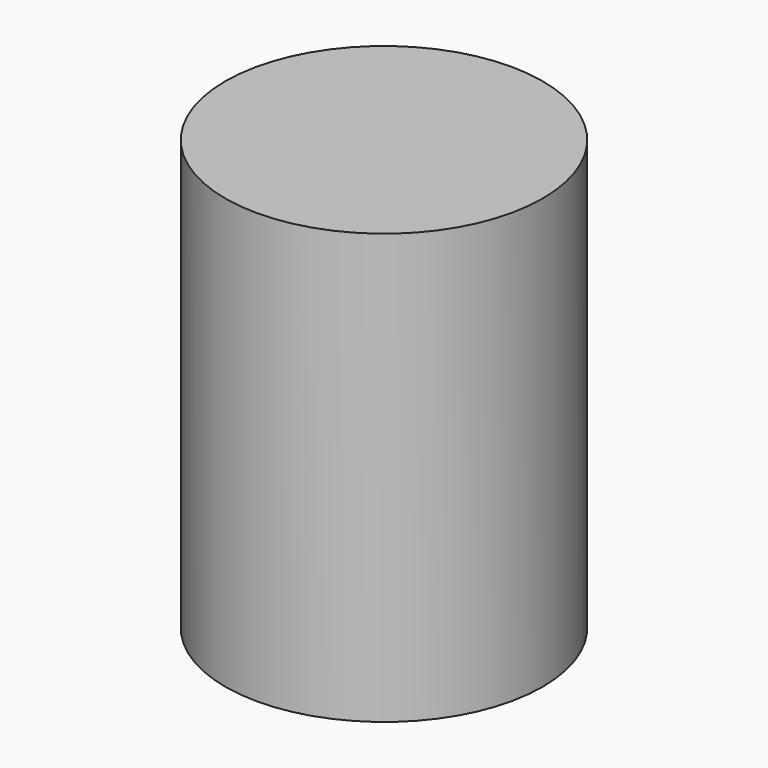
from build123d import *

# Parameters (mm, degrees)
SKETCH_R  = 24
PAD_DEPTH = 65


with BuildPart() as part:
    # Sketch → Pad (new body)
    with BuildSketch(Plane.XY):
        Circle(SKETCH_R)
    extrude(amount=PAD_DEPTH)


solid = part.part
